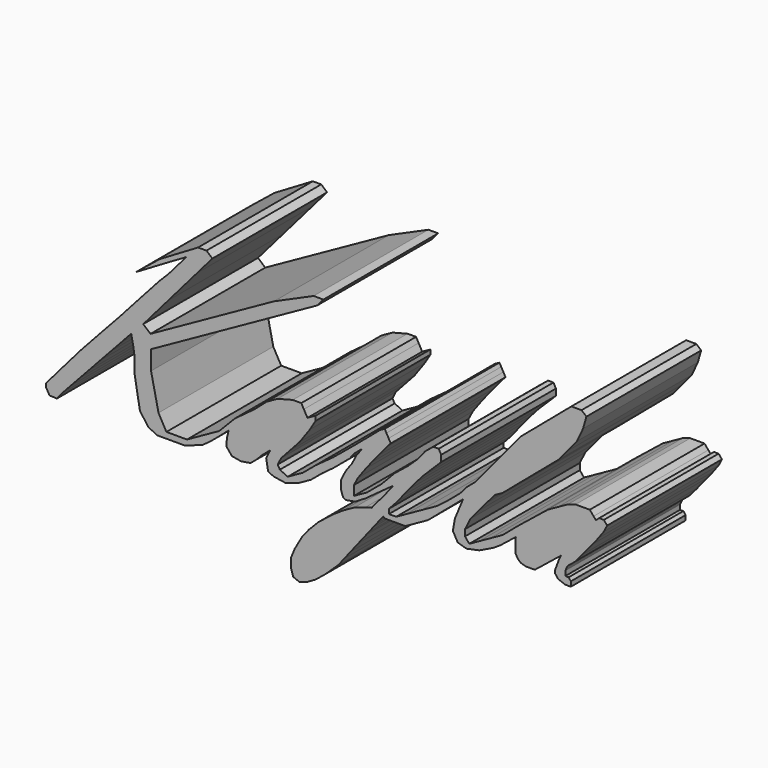
from build123d import *

# Parameters (mm, degrees)
F1_DEPTH = 25.4


with BuildPart() as f1:
    # F0 (on Front) → F1 (new body)
    with BuildSketch(Plane.XZ):
        Polygon((-49.389374, 4.387028), (-52.574232, 0.67136), (-52.574232, 0), (-51.96514, -1.058004), (-50.651453, -1.104922), (-49.776401, 0), (-48.270984, 1.628812), (-46.678692, 3.35162), (-45.08938, 5.071204), (-43.023336, 7.306596), (-41.049657, 9.442052), (-39.4377, 11.186137), (-37.50423, 13.278089), (-37.140559, 11.481607), (-36.91474, 9.972936), (-36.91474, 7.250496), (-36.510238, 4.929318), (-35.955162, 1.744086), (-34.456598, -0.28876), (-32.919601, -1.065853), (-30.197365, -1.065853), (-28.070308, -1.065853), (-26.771206, -0.625479), (-24.926042, 0), (-23.357056, 1.156618), (-21.596685, 2.630737), (-20.255294, 3.814317), (-20.570915, 2.433473), (-20.632045, 1.156618), (-19.663503, 0), (-18.017513, -0.28876), (-16.3605, 0), (-15.244806, 0.934272), (-14.31889, 1.913813), (-12.874444, 3.123379), (-13.604639, 1.679138), (-13.513582, 1.156618), (-13.261702, -0.28876), (-12.325309, -0.762192), (-10.158717, -1.107518), (-7.743383, -0.28876), (-5.66778, 0.867275), (-3.703416, 2.512216), (-1.720502, 3.973971), (0, 5.414704), (1.203849, 6.422796), (1.930269, 7.410727), (3.373682, 8.619428), (2.318911, 7.184941), (1.612365, 5.787476), (0.496806, 4.270316), (0.050873, 3.388313), (-0.392074, 2.512216), (-0.392074, 1.156618), (0, 0), (0.496806, -0.28876), (2.153819, 0), (4.069495, 1.156618), (5.908404, 2.512216), (7.805388, 3.890463), (8.90458, 4.689078), (6.925739, 2.160556), (5.997856, 1.156618), (5.092678, 0), (3.981492, -0.289016), (2.024131, -0.952527), (0, -2.080498), (-1.824239, -3.307995), (-3.383492, -4.535493), (-4.37876, -5.331707), (-6.084718, -7.074729), (-7.265038, -8.582916), (-8.558886, -10.840268), (-9.222399, -12.464462), (-9.222399, -13.99054), (-8.824291, -15.284388), (-7.762672, -15.715672), (-6.336121, -15.284388), (-4.843219, -14.421823), (-3.051736, -12.962095), (-0.832695, -10.840268), (0.214612, -9.502042), (1.346627, -8.055578), (2.75447, -6.256667), (4.081903, -4.560501), (4.536464, -3.979673), (5.342353, -2.949926), (5.945936, -2.178679), (6.572831, -1.377647), (7.13283, -0.662092), (7.356269, -0.92555), (9.171092, -0.92555), (11.040428, -0.92555), (12.702205, 0), (15.015605, 1.28848), (16.043874, 2.160556), (17.19647, 3.138075), (18.130331, 3.930084), (19.216986, 4.851677), (19.823311, 5.365902), (20.584526, 6.01149), (21.243606, 6.570457), (19.823311, 3.138075), (19.44842, 1.071004), (20.296743, -0.452117), (21.835396, -0.92555), (24.123652, -0.452117), (25.070515, 0), (26.727527, 0.810368), (27.911106, 1.599421), (30.593889, 3.729864), (30.554436, 3.256432), (30.537832, 2.664643), (30.537832, 1.638873), (30.537832, 1.191151), (30.948174, 0.454402), (31.461846, 0), (32.329805, -0.276023), (33.964844, -0.276023), (34.925308, 0.494746), (35.756711, 1.161944), (36.890851, 2.072088), (37.739703, 2.753289), (38.563326, 3.414243), (38.129348, 2.427927), (37.853178, 1.678326), (37.550181, 0.84982), (37.550181, 0.29933), (38.089894, -0.373212), (39.312925, -0.846645), (40.3412, -0.846645), (40.3412, 0), (39.944168, 0.494746), (39.35238, 0.494746), (39.35238, 1.323252), (39.782028, 2.235444), (40.42732, 2.753289), (41.206654, 3.414243), (42.390235, 4.834539), (44.2238, 7.070632), (45.219067, 8.331304), (46.214338, 9.691505), (46.769458, 10.781722), (46.181161, 11.475386), (45.350237, 11.475386), (44.766465, 10.980288), (44.368314, 11.44975), (43.692991, 12.246026), (42.365965, 12.246026), (41.171644, 12.246026), (39.812367, 11.819875), (38.05402, 10.840539), (36.289267, 9.857636), (33.162682, 7.348562), (31.147868, 5.731682), (28.269906, 3.290878), (26.097449, 2.080898), (24.153017, 0.99792), (22.361302, 0), (21.598037, 0.899969), (21.598037, 2.02794), (22.568338, 3.961584), (24.037837, 5.731682), (25.380138, 7.348562), (26.097449, 8.159436), (26.851347, 9.06755), (28.269906, 9.857636), (30.970402, 12.14793), (33.672816, 14.439852), (35.70116, 16.160094), (38.143534, 18.231475), (39.662624, 20.061308), (41.437048, 22.198707), (42.498667, 24.498903), (43.099452, 26.570193), (42.233262, 27.289286), (40.431403, 27.289286), (39.156874, 26.208356), (37.141251, 24.498903), (35.359171, 22.987518), (33.519921, 21.427647), (31.568574, 19.772707), (29.812198, 17.657049), (28.269906, 15.799267), (26.097449, 13.182415), (24.655201, 11.445142), (23.453619, 9.997765), (21.981699, 8.749428), (20.742471, 7.348562), (18.836001, 5.731682), (16.719968, 4.073207), (13.917288, 2.512216), (11.180213, 0.987765), (9.406731, 0), (8.123457, 0), (8.123457, 0.821767), (9.685704, 2.512216), (10.578415, 3.667286), (11.63851, 5.006353), (12.921783, 6.512804), (14.205056, 7.963461), (17.385343, 11.119751), (17.385343, 12.259637), (16.938988, 13.05045), (15.990483, 13.05045), (14.539823, 11.869076), (13.312344, 10.308837), (11.526922, 8.616528), (9.183553, 6.735982), (6.840184, 4.281025), (4.240611, 2.108543), (1.930269, 0.821767), (1.930269, 1.658684), (1.930269, 2.512216), (2.655597, 3.890463), (4.05046, 5.787476), (5.054761, 7.07075), (6.338034, 8.616528), (7.691656, 10.308837), (8.455348, 11.119751), (8.074146, 11.80418), (7.691656, 12.490922), (7.380019, 13.05045), (6.561212, 12.594405), (4.496816, 10.840539), (1.874474, 8.616528), (-1.696373, 5.675887), (-4.844931, 3.388313), (-7.112888, 1.489146), (-9.786574, 0), (-11.179927, 0.643218), (-11.559051, 1.323917), (-10.958258, 2.512216), (-9.396013, 4.22523), (-7.666383, 6.122243), (-5.88096, 8.616528), (-4.844931, 10.308837), (-4.844931, 11.119751), (-5.346242, 10.840539), (-6.300886, 10.308837), (-6.933767, 11.445142), (-7.387411, 12.259637), (-8.893862, 12.259637), (-11.559051, 11.569067), (-13.524805, 10.474213), (-15.644995, 8.616528), (-19.104254, 6.066449), (-21.929351, 3.171864), (-27.624272, 0), (-31.267749, 0), (-32.666963, 2.512216), (-33.988858, 8.616528), (-33.988858, 12.006315), (-29.619566, 14.439852), (-23.135563, 18.051206), (-19.552755, 20.0467), (-15.319362, 22.404546), (-11.559051, 24.498903), (-7.31412, 26.863175), (-4.574243, 28.389188), (-3.472432, 29.667995), (-5.197563, 29.667995), (-12.23079, 26.539842), (-34.090427, 14.364818), (-35.370453, 15.467679), (-30.94374, 20.605504), (-25.830758, 26.539842), (-23.135563, 29.667995), (-24.174007, 30.56271), (-25.669097, 30.56271), (-32.469817, 26.539842), (-36.649942, 23.164419), (-30.94374, 26.539842), (-27.756974, 28.389188), (-30.94374, 24.690496), (-32.469817, 23.164419), (-36.649942, 18.519834), (-39.370343, 15.467679), (-43.417767, 11.088499), (-46.403568, 7.83729), align=None)
    extrude(amount=F1_DEPTH)


solid = f1.part
